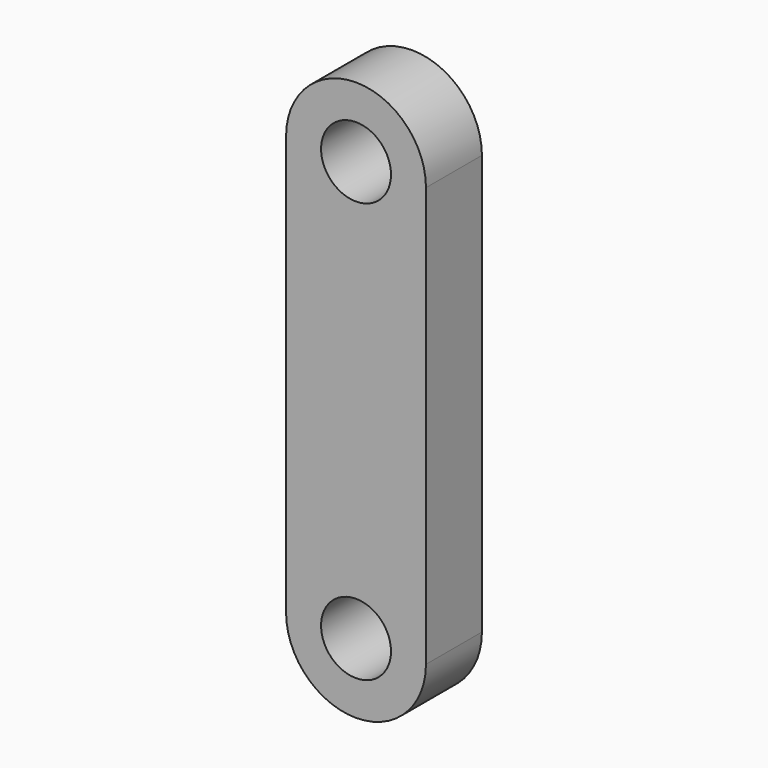
from build123d import *

# Parameters (mm, degrees)
F0_R     = 2.5
F1_DEPTH = 2.5


with BuildPart() as f1:
    # F0 (on Front) → F1 (new body, symmetric)
    with BuildSketch(Plane.XZ):
        with BuildLine():
            ThreePointArc((-5, 0), (0, 5), (5, 0))
            Line((5, 0), (5, 30))
            ThreePointArc((5, 30), (0, 25), (-5, 30))
            Line((-5, 30), (-5, 0))
        make_face()
        with BuildLine():
            ThreePointArc((-5, 30), (0, 25), (5, 30))
            ThreePointArc((5, 30), (0, 35), (-5, 30))
        make_face()
        with Locations((0, 30)):
            Circle(F0_R, mode=Mode.SUBTRACT)
        with BuildLine():
            ThreePointArc((-5, 0), (0, -5), (5, 0))
            ThreePointArc((5, 0), (0, 5), (-5, 0))
        make_face()
        Circle(F0_R, mode=Mode.SUBTRACT)
    extrude(amount=F1_DEPTH, both=True)


solid = f1.part
